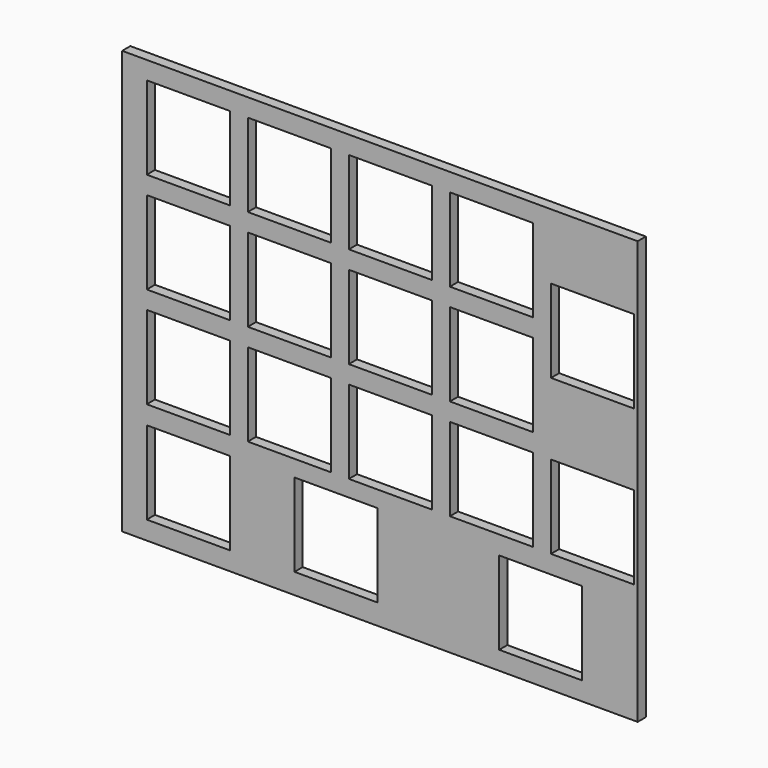
from build123d import *

# Parameters (mm, degrees)
F0_W     = 100.5
F0_H     = 82.5
F1_DEPTH = 2
F2_W     = 16.2
F2_H     = 16.2
F3_DEPTH = 25


with BuildPart() as f1:
    # F0 (on Front) → F1 (new body)
    with BuildSketch(Plane.XZ):
        with Locations((-67.112431, 2.068522)):
            Rectangle(F0_W, F0_H)
    extrude(amount=F1_DEPTH)

    # F2 (on Front) → F3 (cut)
    with BuildSketch(Plane.XZ):
        with Locations((-104.462431, 31.718522)):
            Rectangle(F2_W, F2_H)
        with Locations((-104.462431, 12.018522)):
            Rectangle(F2_W, F2_H)
        with Locations((-104.462431, -7.681478)):
            Rectangle(F2_W, F2_H)
        with Locations((-104.462431, -27.481478)):
            Rectangle(F2_W, F2_H)
        with Locations((-84.762431, 31.718522)):
            Rectangle(F2_W, F2_H)
        with Locations((-84.762431, 12.018522)):
            Rectangle(F2_W, F2_H)
        with Locations((-84.762431, -7.681478)):
            Rectangle(F2_W, F2_H)
        with Locations((-65.062431, 31.718522)):
            Rectangle(F2_W, F2_H)
        with Locations((-65.062431, 12.018522)):
            Rectangle(F2_W, F2_H)
        with Locations((-65.062431, -7.681478)):
            Rectangle(F2_W, F2_H)
        with Locations((-45.362431, 31.718522)):
            Rectangle(F2_W, F2_H)
        with Locations((-45.362431, 12.018522)):
            Rectangle(F2_W, F2_H)
        with Locations((-45.362431, -7.681478)):
            Rectangle(F2_W, F2_H)
        with Locations((-75.662431, -27.079934)):
            Rectangle(F2_W, F2_H)
        with Locations((-35.762431, -27.481478)):
            Rectangle(F2_W, F2_H)
        with Locations((-25.662431, -7.731478)):
            Rectangle(F2_W, F2_H)
        with Locations((-25.662431, 22.468522)):
            Rectangle(F2_W, F2_H)
    extrude(amount=F3_DEPTH, mode=Mode.SUBTRACT)


solid = f1.part
